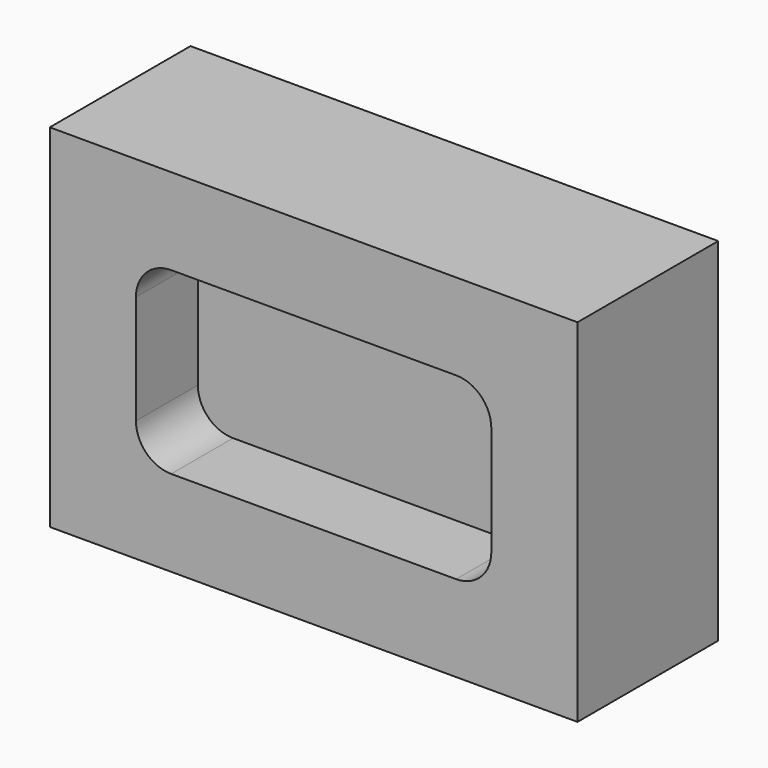
from build123d import *

# Parameters (mm, degrees)
F0_W     = 150
F0_H     = 100
F1_DEPTH = 50
F3_DEPTH = 22


with BuildPart() as f1:
    # F0 (on Front) → F1 (new body)
    with BuildSketch(Plane.XZ):
        Rectangle(F0_W, F0_H)
    extrude(amount=F1_DEPTH)

    # F2 (on face) → F3 (cut)
    with BuildSketch(Plane.XZ.offset(50)):
        with BuildLine():
            ThreePointArc((50.5, 15.5), (47.571068, 22.571068), (40.5, 25.5))
            Line((40.5, 25.5), (-40.5, 25.5))
            ThreePointArc((-40.5, 25.5), (-47.571068, 22.571068), (-50.5, 15.5))
            Line((-50.5, 15.5), (-50.5, -15.5))
            ThreePointArc((-50.5, -15.5), (-47.571068, -22.571068), (-40.5, -25.5))
            Line((-40.5, -25.5), (40.5, -25.5))
            ThreePointArc((40.5, -25.5), (47.571068, -22.571068), (50.5, -15.5))
            Line((50.5, -15.5), (50.5, 15.5))
        make_face()
    extrude(amount=-F3_DEPTH, mode=Mode.SUBTRACT)


solid = f1.part
